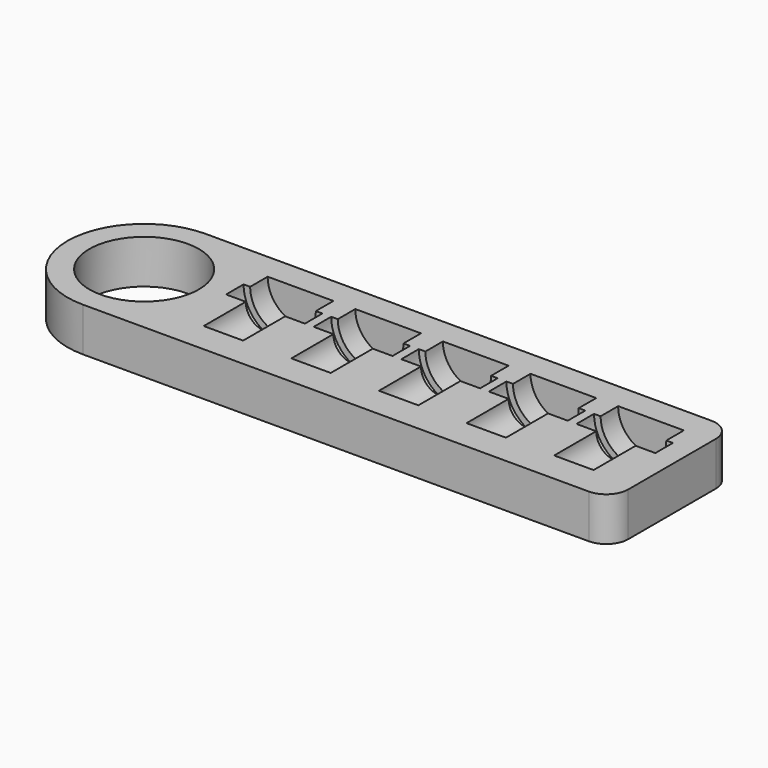
from build123d import *

# Parameters (mm, degrees)
F0_R     = 12.5
F1_DEPTH = 10


with BuildPart() as f1:
    # F0 (on Top) → F1 (new body)
    with BuildSketch(Plane.XY):
        with BuildLine():
            ThreePointArc((0, 17.5), (5.125631, 5.125631), (17.5, 0))
            Line((17.5, 0), (133, 0))
            ThreePointArc((133, 0), (136.535534, 1.464466), (138, 5))
            Line((138, 5), (138, 30))
            ThreePointArc((138, 30), (136.535534, 33.535534), (133, 35))
            Line((133, 35), (17.5, 35))
            ThreePointArc((17.5, 35), (5.125631, 29.874369), (0, 17.5))
        make_face()
        with Locations((17.5, 17.5)):
            Circle(F0_R, mode=Mode.SUBTRACT)
    extrude(amount=F1_DEPTH)

    # F2 (on face) → F3 (revolve, cut)
    with BuildSketch(Plane.XY.offset(10)):
        Polygon((44, 19), (44, 7), (48.5, 7), (48.5, 19), (53, 19), (53, 24), (51.5, 24), (51.5, 29), (44, 29), (44, 24), align=None)
    revolve(axis=Axis((44, 13, 10), (0, 1, 0)), mode=Mode.SUBTRACT)

    # F2 (on face) → F4 (revolve, cut)
    with BuildSketch(Plane.XY.offset(10)):
        Polygon((64, 19), (64, 7), (68.5, 7), (68.5, 19), (73, 19), (73, 24), (71.5, 24), (71.5, 29), (64, 29), (64, 24), align=None)
    revolve(axis=Axis((64, 21.5, 10), (0, 1, 0)), mode=Mode.SUBTRACT)

    # F2 (on face) → F5 (revolve, cut)
    with BuildSketch(Plane.XY.offset(10)):
        Polygon((84, 19), (84, 7), (88.5, 7), (88.5, 19), (93, 19), (93, 24), (91.5, 24), (91.5, 29), (84, 29), (84, 24), align=None)
    revolve(axis=Axis((84, 21.5, 10), (0, 1, 0)), mode=Mode.SUBTRACT)

    # F2 (on face) → F6 (revolve, cut)
    with BuildSketch(Plane.XY.offset(10)):
        Polygon((104, 19), (104, 7), (108.5, 7), (108.5, 19), (113, 19), (113, 24), (111.5, 24), (111.5, 29), (104, 29), (104, 24), align=None)
    revolve(axis=Axis((104, 13, 10), (0, 1, 0)), mode=Mode.SUBTRACT)

    # F2 (on face) → F7 (revolve, cut)
    with BuildSketch(Plane.XY.offset(10)):
        Polygon((124, 19), (124, 7), (128.5, 7), (128.5, 19), (133, 19), (133, 24), (131.5, 24), (131.5, 29), (124, 29), (124, 24), align=None)
    revolve(axis=Axis((124, 13, 10), (0, 1, 0)), mode=Mode.SUBTRACT)


solid = f1.part
